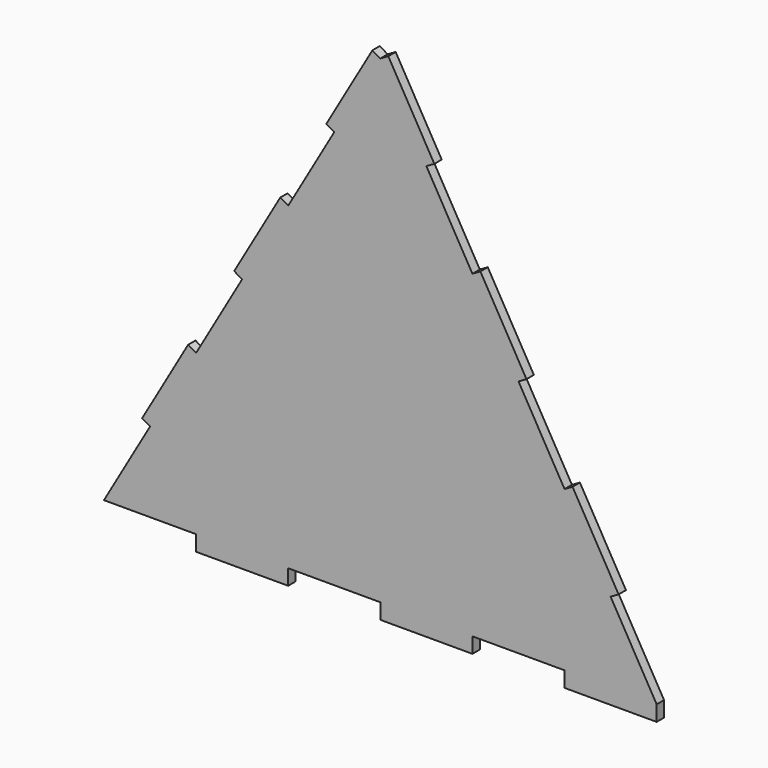
from build123d import *

# Parameters (mm, degrees)
F0_W     = 25.4
F0_H     = 4.2683564431
F1_DEPTH = 2.54


with BuildPart() as f1:
    # F0 (on Front) → F1 (new body)
    with BuildSketch(Plane.XZ):
        Polygon((12.7, 40.6274771875), (0, 62.6245224436), (-12.7, 40.6274771875), (-25.4, 18.6304319314), (-38.1, -3.3666133248), (-50.8, -25.3636585809), (-63.5, -47.360703837), (-76.2127, -69.3797461384), (-50.8127, -69.3797461384), (-25.4127, -69.3797461384), (0, -69.3797461384), (25.4, -69.3797461384), (50.8, -69.3797461384), (76.2127, -69.3797461384), (63.50635, -47.3717023596), (50.80635, -25.3746571035), (38.10635, -3.3776118474), (25.4, 18.6304319314), align=None)
        Polygon((2.1997045256, 63.8945224436), (0, 62.6245224436), (12.7, 40.6274771875), (14.8997045256, 41.8974771875), align=None)
        Polygon((-12.7, 40.6274771875), (0, 62.6245224436), (-2.1997045256, 63.8945224436), (-14.8997045256, 41.8974771875), align=None)
        Polygon((-38.1, -3.3666133248), (-25.4, 18.6304319314), (-27.5997045256, 19.9004319314), (-40.2997045256, -2.0966133248), align=None)
        Polygon((27.5997045256, 19.9004319314), (25.4, 18.6304319314), (38.10635, -3.3776118474), (40.3060545256, -2.1076118474), align=None)
        Polygon((-63.5, -47.360703837), (-50.8, -25.3636585809), (-52.9997045256, -24.0936585809), (-65.6997045256, -46.090703837), align=None)
        Polygon((53.0060545256, -24.1046571035), (50.80635, -25.3746571035), (63.50635, -47.3717023596), (65.7060545256, -46.1017023596), align=None)
        Polygon((76.2, -73.6481025815), (76.2127, -69.3797461384), (50.8, -69.3797461384), (50.8, -73.6481025815), align=None)
        with Locations((-38.1127, -71.5139243599)):
            Rectangle(F0_W, F0_H)
        with Locations((12.7, -71.5139243599)):
            Rectangle(F0_W, F0_H)
    extrude(amount=F1_DEPTH)


solid = f1.part
